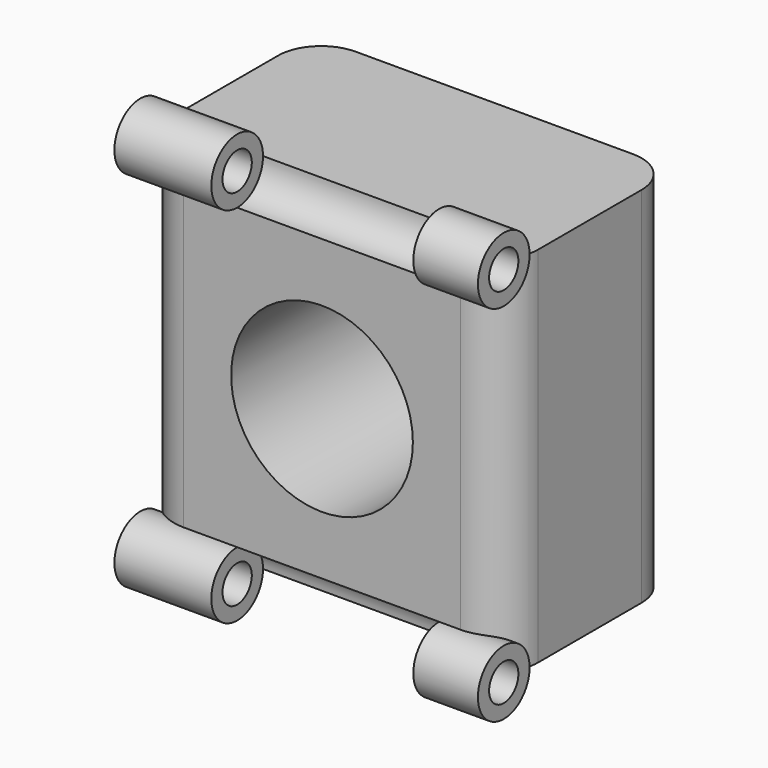
from build123d import *

# Parameters (mm, degrees)
F0_W     = 42.8752
F0_H     = 42.8752
F0_R     = 10.7188
F1_DEPTH = 25.4
F2_R     = 5.08
F3_R     = 3.81
F3_R_2   = 2.159
F4_DEPTH = 42.8752
F5_DEPTH = 47.9806
F6_DEPTH = 35.2552
F7_DEPTH = 11.43
F8_DEPTH = 58.166


with BuildPart() as f1:
    # F0 (on Front) → F1 (new body)
    with BuildSketch(Plane.XZ):
        Rectangle(F0_W, F0_H)
        Circle(F0_R, mode=Mode.SUBTRACT)
    extrude(amount=F1_DEPTH)

    # F2
    f2_edges = [f1.edges().sort_by_distance(p)[0] for p in [
        (21.4376, 0, 0),
        (21.4376, -25.4, 0),
        (-21.4376, 0, 0),
        (-21.4376, -25.4, 0),
    ]]
    fillet(f2_edges, radius=F2_R)

    # F3 (on face) → F4 (join)
    with BuildSketch(Plane(origin=(-21.4376, 0, 0), x_dir=(0, -1, 0), z_dir=(-1, 0, 0))):
        with Locations((25.4, 21.4376)):
            Circle(F3_R)
        with Locations((25.4, 21.4376)):
            Circle(F3_R_2, mode=Mode.SUBTRACT)
        with Locations((25.4, -21.4376)):
            Circle(F3_R)
        with Locations((25.4, -21.4376)):
            Circle(F3_R_2, mode=Mode.SUBTRACT)
        with Locations((25.4, 21.4376)):
            Circle(F3_R_2)
    extrude(amount=-F4_DEPTH)

    # F3 (on face) → F5 (cut)
    with BuildSketch(Plane(origin=(-21.4376, 0, 0), x_dir=(0, -1, 0), z_dir=(-1, 0, 0))):
        with Locations((25.4, 21.4376)):
            Circle(F3_R_2)
    extrude(amount=-F5_DEPTH, mode=Mode.SUBTRACT)

    # F3 (on face) → F6 (cut)
    with BuildSketch(Plane(origin=(-21.4376, 0, 0), x_dir=(0, -1, 0), z_dir=(-1, 0, 0))):
        with Locations((25.4, 21.4376)):
            Circle(F3_R)
        with Locations((25.4, 21.4376)):
            Circle(F3_R_2, mode=Mode.SUBTRACT)
        with Locations((25.4, -21.4376)):
            Circle(F3_R)
        with Locations((25.4, -21.4376)):
            Circle(F3_R_2, mode=Mode.SUBTRACT)
    extrude(amount=-F6_DEPTH, mode=Mode.SUBTRACT)

    # F3 (on face) → F7 (join)
    with BuildSketch(Plane(origin=(-21.4376, 0, 0), x_dir=(0, -1, 0), z_dir=(-1, 0, 0))):
        with Locations((25.4, 21.4376)):
            Circle(F3_R)
        with Locations((25.4, 21.4376)):
            Circle(F3_R_2, mode=Mode.SUBTRACT)
        with Locations((25.4, -21.4376)):
            Circle(F3_R)
        with Locations((25.4, -21.4376)):
            Circle(F3_R_2, mode=Mode.SUBTRACT)
    extrude(amount=-F7_DEPTH)

    # F3 (on face) → F8 (cut)
    with BuildSketch(Plane(origin=(-21.4376, 0, 0), x_dir=(0, -1, 0), z_dir=(-1, 0, 0))):
        with Locations((25.4, -21.4376)):
            Circle(F3_R_2)
    extrude(amount=-F8_DEPTH, mode=Mode.SUBTRACT)


solid = f1.part
